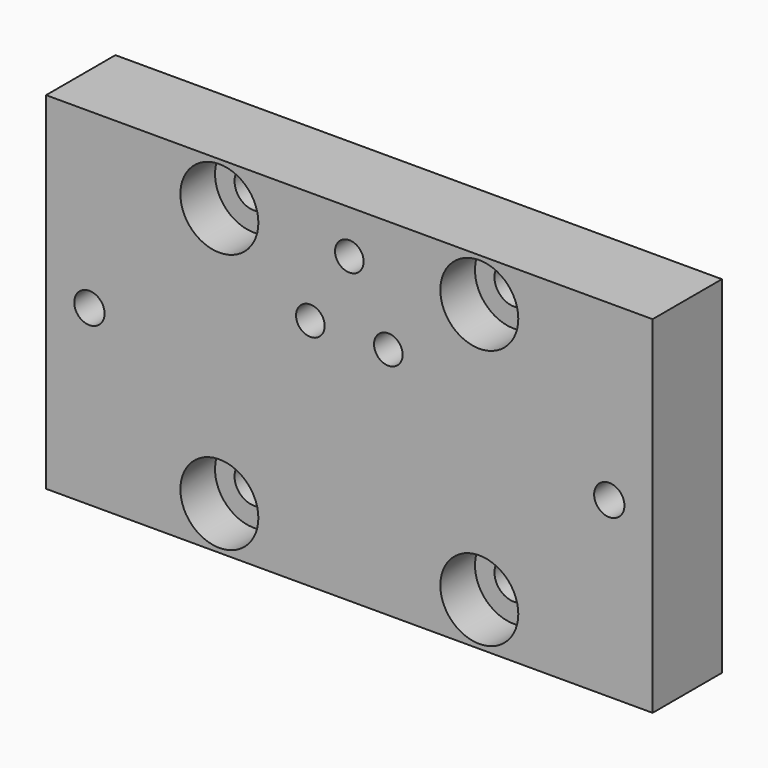
from build123d import *

# Parameters (mm, degrees)
F0_W     = 70
F0_H     = 40
F0_R     = 2.25
F0_R_2   = 1.65
F1_DEPTH = 10
F2_R     = 2.25
F2_R_2   = 4.5
F3_DEPTH = 5
F4_R     = 3.75
F5_DEPTH = 5
F6_R     = 1.75
F7_DEPTH = 25
F8_R     = 3.5
F9_DEPTH = 5


with BuildPart() as f1:
    # F0 (on Front) → F1 (new body)
    with BuildSketch(Plane.XZ):
        with Locations((-35, 0)):
            Rectangle(F0_W, F0_H)
        with Locations((-50, -15)):
            Circle(F0_R, mode=Mode.SUBTRACT)
        with Locations((-20, -15)):
            Circle(F0_R, mode=Mode.SUBTRACT)
        with Locations((-39.5, 7)):
            Circle(F0_R_2, mode=Mode.SUBTRACT)
        with Locations((-50, 15)):
            Circle(F0_R, mode=Mode.SUBTRACT)
        with Locations((-30.5, 7)):
            Circle(F0_R_2, mode=Mode.SUBTRACT)
        with Locations((-35, 15)):
            Circle(F0_R_2, mode=Mode.SUBTRACT)
        with Locations((-20, 15)):
            Circle(F0_R, mode=Mode.SUBTRACT)
    extrude(amount=F1_DEPTH)

    # F2 (on face) → F3 (cut)
    with BuildSketch(Plane.XZ.offset(10)):
        with Locations((-50, 15)):
            Circle(F2_R)
        with Locations((-20, 15)):
            Circle(F2_R)
        with Locations((-20, -15)):
            Circle(F2_R)
        with Locations((-50, -15)):
            Circle(F2_R)
        with Locations((-20, 15)):
            Circle(F2_R_2)
        with Locations((-20, 15)):
            Circle(F2_R, mode=Mode.SUBTRACT)
        with Locations((-20, -15)):
            Circle(F2_R_2)
        with Locations((-20, -15)):
            Circle(F2_R, mode=Mode.SUBTRACT)
        with Locations((-50, -15)):
            Circle(F2_R_2)
        with Locations((-50, -15)):
            Circle(F2_R, mode=Mode.SUBTRACT)
        with Locations((-50, 15)):
            Circle(F2_R_2)
        with Locations((-50, 15)):
            Circle(F2_R, mode=Mode.SUBTRACT)
    extrude(amount=-F3_DEPTH, mode=Mode.SUBTRACT)

    # F4 (on face) → F5 (cut)
    with BuildSketch(Plane(origin=(0, 0, 0), x_dir=(-1, 0, 0), z_dir=(0, 1, 0))):
        with Locations((35, 15)):
            Circle(F4_R)
        with Locations((30.5, 7)):
            Circle(F4_R)
        with Locations((39.5, 7)):
            Circle(F4_R)
    extrude(amount=-F5_DEPTH, mode=Mode.SUBTRACT)

    # F6 (on face) → F7 (cut)
    with BuildSketch(Plane.XZ.offset(10)):
        with Locations((-65, 0)):
            Circle(F6_R)
        with Locations((-5, 0)):
            Circle(F6_R)
    extrude(amount=-F7_DEPTH, mode=Mode.SUBTRACT)

    # F8 (on face) → F9 (cut)
    with BuildSketch(Plane(origin=(0, 0, 0), x_dir=(-1, 0, 0), z_dir=(0, 1, 0))):
        with Locations((5, 0)):
            Circle(F8_R)
        with Locations((65, 0)):
            Circle(F8_R)
    extrude(amount=-F9_DEPTH, mode=Mode.SUBTRACT)


solid = f1.part
